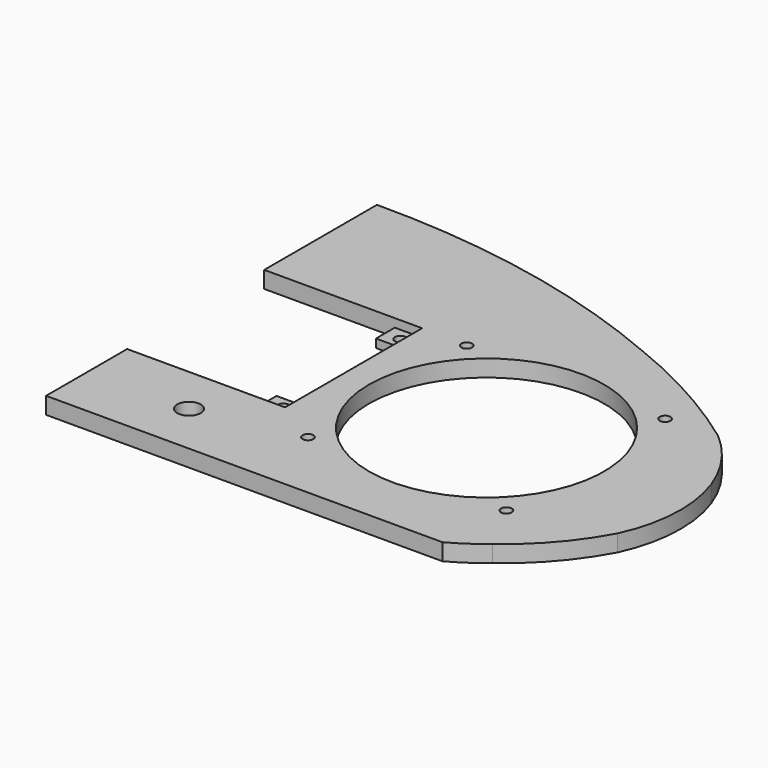
from build123d import *

# Parameters (mm, degrees)
PAD002_DEPTH            = 5
SKETCH015_R             = 35
SKETCH015_R_2           = 1.6
POCKET005_DEPTH         = 5.001
SKETCH013_R             = 3.5
SKETCH013_R_2           = 1.7
POCKET004_DEPTH         = 5.001
SKETCH025_W             = 47
SKETCH025_H             = 51
POCKET027_DEPTH         = 2.5
BODY002_PLACEMENT_ANGLE = 180


with BuildPart() as part:
    # Sketch014 → Pad002 (new body)
    with BuildSketch(Plane.XY):
        with BuildLine():
            Line((0, 67.42), (0, -55.65))
            Line((0, -55.65), (-117.94, -55.65))
            ThreePointArc((-127.64, -49.11), (-122.947197, -52.613151), (-117.94, -55.65))
            ThreePointArc((-146.95, -26.77), (-138.520798, -38.999541), (-127.64, -49.11))
            ThreePointArc((-148.54, 6.09), (-150.980867, -10.496574), (-146.95, -26.77))
            ThreePointArc((-134.5, 26.2), (-142.831473, 17.060618), (-148.54, 6.09))
            ThreePointArc((-94.13, 48.54), (-115.023795, 38.650843), (-134.5, 26.2))
            ThreePointArc((0, 67.42), (-48.036997, 62.826084), (-94.13, 48.54))
        make_face()
    extrude(amount=PAD002_DEPTH)

    # Sketch015 (on Face10 of Pad002) → Pocket005 (cut, through all)
    with BuildSketch(Plane.XY.offset(5)):
        with Locations((-90.05, -4.36)):
            Circle(SKETCH015_R)
        with Locations((-119.571708, 25.161708)):
            Circle(SKETCH015_R_2)
        with Locations((-60.528292, 25.161708)):
            Circle(SKETCH015_R_2)
        with Locations((-60.528292, -33.881708)):
            Circle(SKETCH015_R_2)
        with Locations((-119.571708, -33.881708)):
            Circle(SKETCH015_R_2)
    extrude(amount=-POCKET005_DEPTH, mode=Mode.SUBTRACT)

    # Sketch013 (on Face5 of Pocket005) → Pocket004 (cut, through all)
    with BuildSketch(Plane.XY.offset(5)):
        with Locations((-30, -40)):
            Circle(SKETCH013_R)
        with Locations((-43.55, 21.8)):
            Circle(SKETCH013_R_2)
        with Locations((-43.55, -21.8)):
            Circle(SKETCH013_R_2)
        Polygon((0, 25.5), (-38.85, 25.5), (-38.85, 18.5), (-46.75, 18.5), (-46.75, -18.5), (-38.85, -18.5), (-38.85, -25.5), (0, -25.5), align=None)
    extrude(amount=-POCKET004_DEPTH, mode=Mode.SUBTRACT)

    # Sketch025 → Pocket027 (cut)
    with BuildSketch(Plane.XY):
        with Locations((-23.5, 0)):
            Rectangle(SKETCH025_W, SKETCH025_H)
    extrude(amount=POCKET027_DEPTH, mode=Mode.SUBTRACT)


with BuildPart() as part_1:
    # Body002 placement: moved
    add(part.part.moved(Location((0, 0, 2))).rotate(Axis((0, 0, 2), (0, 1, 0)), BODY002_PLACEMENT_ANGLE))


solid = part_1.part
